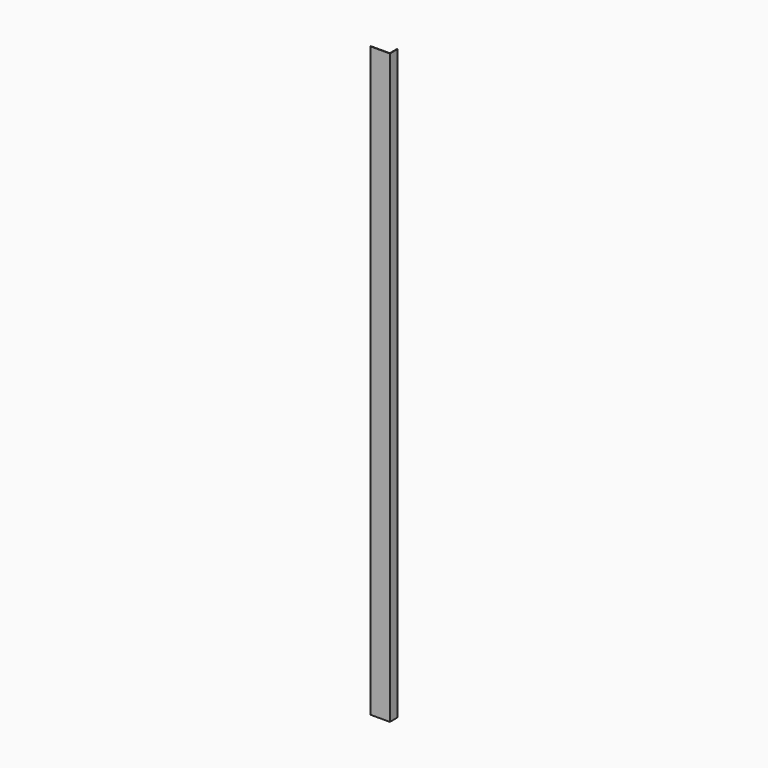
from build123d import *

# Parameters (mm, degrees)
F0_W     = 19.5
F0_H     = 0.5
F0_W_2   = 0.5
F0_H_2   = 9.5
F1_DEPTH = 600


with BuildPart() as f1:
    # F0 (on Top) → F1 (new body)
    with BuildSketch(Plane.XY):
        with Locations((-18.165289, -20.745225)):
            Rectangle(F0_W, F0_H)
        with Locations((-8.165289, -20.745225)):
            Rectangle(F0_W_2, F0_H)
        with Locations((-8.165289, -15.745225)):
            Rectangle(F0_W_2, F0_H_2)
    extrude(amount=F1_DEPTH)


solid = f1.part
